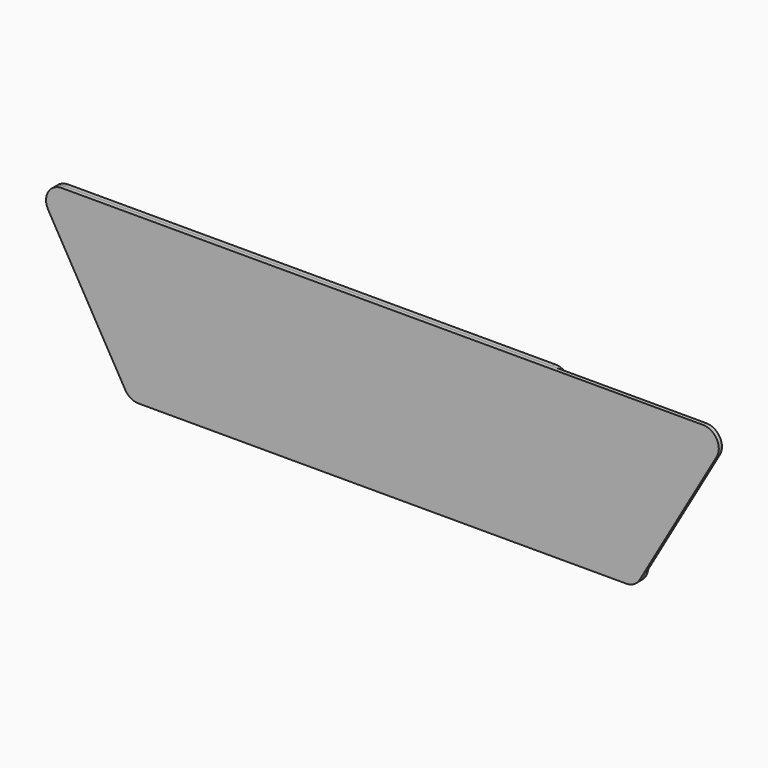
from build123d import *

# Parameters (mm, degrees)
F0_R     = 9.4
F1_DEPTH = 3
F3_DEPTH = 3


with BuildPart() as f1:
    # F0 (on Front) → F1 (new body)
    with BuildSketch(Plane.XZ):
        with BuildLine():
            Line((-10.392305, -6), (48.407695, -107.844587))
            ThreePointArc((48.407695, -107.844587), (52.8, -112.236892), (58.8, -113.844587))
            Line((58.8, -113.844587), (431.2, -113.844587))
            ThreePointArc((431.2, -113.844587), (441.592305, -107.844587), (441.592305, -95.844587))
            Line((441.592305, -95.844587), (382.792305, 6))
            ThreePointArc((382.792305, 6), (378.4, 10.392305), (372.4, 12))
            Line((372.4, 12), (0, 12))
            ThreePointArc((0, 12), (-10.392305, 6), (-10.392305, -6))
        make_face()
        with Locations((58.8, -101.844587)):
            Circle(F0_R, mode=Mode.SUBTRACT)
        with Locations((78.4, -101.844587)):
            Circle(F0_R, mode=Mode.SUBTRACT)
        with Locations((98, -101.844587)):
            Circle(F0_R, mode=Mode.SUBTRACT)
        with Locations((49, -84.87049)):
            Circle(F0_R, mode=Mode.SUBTRACT)
        with Locations((68.6, -84.87049)):
            Circle(F0_R, mode=Mode.SUBTRACT)
        with Locations((88.2, -84.87049)):
            Circle(F0_R, mode=Mode.SUBTRACT)
        with Locations((117.6, -101.844587)):
            Circle(F0_R, mode=Mode.SUBTRACT)
        with Locations((137.2, -101.844587)):
            Circle(F0_R, mode=Mode.SUBTRACT)
        with Locations((156.8, -101.844587)):
            Circle(F0_R, mode=Mode.SUBTRACT)
        with Locations((176.4, -101.844587)):
            Circle(F0_R, mode=Mode.SUBTRACT)
        with Locations((196, -101.844587)):
            Circle(F0_R, mode=Mode.SUBTRACT)
        with Locations((215.6, -101.844587)):
            Circle(F0_R, mode=Mode.SUBTRACT)
        with Locations((107.8, -84.87049)):
            Circle(F0_R, mode=Mode.SUBTRACT)
        with Locations((127.4, -84.87049)):
            Circle(F0_R, mode=Mode.SUBTRACT)
        with Locations((147, -84.87049)):
            Circle(F0_R, mode=Mode.SUBTRACT)
        with Locations((166.6, -84.87049)):
            Circle(F0_R, mode=Mode.SUBTRACT)
        with Locations((186.2, -84.87049)):
            Circle(F0_R, mode=Mode.SUBTRACT)
        with Locations((205.8, -84.87049)):
            Circle(F0_R, mode=Mode.SUBTRACT)
        with Locations((39.2, -67.896392)):
            Circle(F0_R, mode=Mode.SUBTRACT)
        with Locations((58.8, -67.896392)):
            Circle(F0_R, mode=Mode.SUBTRACT)
        with Locations((78.4, -67.896392)):
            Circle(F0_R, mode=Mode.SUBTRACT)
        with Locations((98, -67.896392)):
            Circle(F0_R, mode=Mode.SUBTRACT)
        with Locations((117.6, -67.896392)):
            Circle(F0_R, mode=Mode.SUBTRACT)
        with Locations((137.2, -67.896392)):
            Circle(F0_R, mode=Mode.SUBTRACT)
        with Locations((156.8, -67.896392)):
            Circle(F0_R, mode=Mode.SUBTRACT)
        with Locations((176.4, -67.896392)):
            Circle(F0_R, mode=Mode.SUBTRACT)
        with Locations((196, -67.896392)):
            Circle(F0_R, mode=Mode.SUBTRACT)
        with Locations((215.6, -67.896392)):
            Circle(F0_R, mode=Mode.SUBTRACT)
        with Locations((235.2, -101.844587)):
            Circle(F0_R, mode=Mode.SUBTRACT)
        with Locations((254.8, -101.844587)):
            Circle(F0_R, mode=Mode.SUBTRACT)
        with Locations((274.4, -101.844587)):
            Circle(F0_R, mode=Mode.SUBTRACT)
        with Locations((294, -101.844587)):
            Circle(F0_R, mode=Mode.SUBTRACT)
        with Locations((313.6, -101.844587)):
            Circle(F0_R, mode=Mode.SUBTRACT)
        with Locations((225.4, -84.87049)):
            Circle(F0_R, mode=Mode.SUBTRACT)
        with Locations((245, -84.87049)):
            Circle(F0_R, mode=Mode.SUBTRACT)
        with Locations((264.6, -84.87049)):
            Circle(F0_R, mode=Mode.SUBTRACT)
        with Locations((284.2, -84.87049)):
            Circle(F0_R, mode=Mode.SUBTRACT)
        with Locations((303.8, -84.87049)):
            Circle(F0_R, mode=Mode.SUBTRACT)
        with Locations((323.4, -84.87049)):
            Circle(F0_R, mode=Mode.SUBTRACT)
        with Locations((333.2, -101.844587)):
            Circle(F0_R, mode=Mode.SUBTRACT)
        with Locations((352.8, -101.844587)):
            Circle(F0_R, mode=Mode.SUBTRACT)
        with Locations((372.4, -101.844587)):
            Circle(F0_R, mode=Mode.SUBTRACT)
        with Locations((392, -101.844587)):
            Circle(F0_R, mode=Mode.SUBTRACT)
        with Locations((411.6, -101.844587)):
            Circle(F0_R, mode=Mode.SUBTRACT)
        with Locations((431.2, -101.844587)):
            Circle(F0_R, mode=Mode.SUBTRACT)
        with Locations((343, -84.87049)):
            Circle(F0_R, mode=Mode.SUBTRACT)
        with Locations((362.6, -84.87049)):
            Circle(F0_R, mode=Mode.SUBTRACT)
        with Locations((382.2, -84.87049)):
            Circle(F0_R, mode=Mode.SUBTRACT)
        with Locations((401.8, -84.87049)):
            Circle(F0_R, mode=Mode.SUBTRACT)
        with Locations((421.4, -84.87049)):
            Circle(F0_R, mode=Mode.SUBTRACT)
        with Locations((235.2, -67.896392)):
            Circle(F0_R, mode=Mode.SUBTRACT)
        with Locations((254.8, -67.896392)):
            Circle(F0_R, mode=Mode.SUBTRACT)
        with Locations((274.4, -67.896392)):
            Circle(F0_R, mode=Mode.SUBTRACT)
        with Locations((294, -67.896392)):
            Circle(F0_R, mode=Mode.SUBTRACT)
        with Locations((313.6, -67.896392)):
            Circle(F0_R, mode=Mode.SUBTRACT)
        with Locations((333.2, -67.896392)):
            Circle(F0_R, mode=Mode.SUBTRACT)
        with Locations((352.8, -67.896392)):
            Circle(F0_R, mode=Mode.SUBTRACT)
        with Locations((372.4, -67.896392)):
            Circle(F0_R, mode=Mode.SUBTRACT)
        with Locations((392, -67.896392)):
            Circle(F0_R, mode=Mode.SUBTRACT)
        with Locations((411.6, -67.896392)):
            Circle(F0_R, mode=Mode.SUBTRACT)
        with Locations((29.4, -50.922294)):
            Circle(F0_R, mode=Mode.SUBTRACT)
        with Locations((49, -50.922294)):
            Circle(F0_R, mode=Mode.SUBTRACT)
        with Locations((68.6, -50.922294)):
            Circle(F0_R, mode=Mode.SUBTRACT)
        with Locations((88.2, -50.922294)):
            Circle(F0_R, mode=Mode.SUBTRACT)
        with Locations((19.6, -33.948196)):
            Circle(F0_R, mode=Mode.SUBTRACT)
        with Locations((39.2, -33.948196)):
            Circle(F0_R, mode=Mode.SUBTRACT)
        with Locations((58.8, -33.948196)):
            Circle(F0_R, mode=Mode.SUBTRACT)
        with Locations((78.4, -33.948196)):
            Circle(F0_R, mode=Mode.SUBTRACT)
        with Locations((98, -33.948196)):
            Circle(F0_R, mode=Mode.SUBTRACT)
        with Locations((107.8, -50.922294)):
            Circle(F0_R, mode=Mode.SUBTRACT)
        with Locations((127.4, -50.922294)):
            Circle(F0_R, mode=Mode.SUBTRACT)
        with Locations((147, -50.922294)):
            Circle(F0_R, mode=Mode.SUBTRACT)
        with Locations((166.6, -50.922294)):
            Circle(F0_R, mode=Mode.SUBTRACT)
        with Locations((186.2, -50.922294)):
            Circle(F0_R, mode=Mode.SUBTRACT)
        with Locations((205.8, -50.922294)):
            Circle(F0_R, mode=Mode.SUBTRACT)
        with Locations((117.6, -33.948196)):
            Circle(F0_R, mode=Mode.SUBTRACT)
        with Locations((137.2, -33.948196)):
            Circle(F0_R, mode=Mode.SUBTRACT)
        with Locations((156.8, -33.948196)):
            Circle(F0_R, mode=Mode.SUBTRACT)
        with Locations((176.4, -33.948196)):
            Circle(F0_R, mode=Mode.SUBTRACT)
        with Locations((196, -33.948196)):
            Circle(F0_R, mode=Mode.SUBTRACT)
        with Locations((215.6, -33.948196)):
            Circle(F0_R, mode=Mode.SUBTRACT)
        with Locations((9.8, -16.974098)):
            Circle(F0_R, mode=Mode.SUBTRACT)
        with Locations((29.4, -16.974098)):
            Circle(F0_R, mode=Mode.SUBTRACT)
        with Locations((49, -16.974098)):
            Circle(F0_R, mode=Mode.SUBTRACT)
        with Locations((68.6, -16.974098)):
            Circle(F0_R, mode=Mode.SUBTRACT)
        with Locations((88.2, -16.974098)):
            Circle(F0_R, mode=Mode.SUBTRACT)
        Circle(F0_R, mode=Mode.SUBTRACT)
        with Locations((19.6, 0)):
            Circle(F0_R, mode=Mode.SUBTRACT)
        with Locations((39.2, 0)):
            Circle(F0_R, mode=Mode.SUBTRACT)
        with Locations((58.8, 0)):
            Circle(F0_R, mode=Mode.SUBTRACT)
        with Locations((78.4, 0)):
            Circle(F0_R, mode=Mode.SUBTRACT)
        with Locations((98, 0)):
            Circle(F0_R, mode=Mode.SUBTRACT)
        with Locations((107.8, -16.974098)):
            Circle(F0_R, mode=Mode.SUBTRACT)
        with Locations((127.4, -16.974098)):
            Circle(F0_R, mode=Mode.SUBTRACT)
        with Locations((147, -16.974098)):
            Circle(F0_R, mode=Mode.SUBTRACT)
        with Locations((166.6, -16.974098)):
            Circle(F0_R, mode=Mode.SUBTRACT)
        with Locations((186.2, -16.974098)):
            Circle(F0_R, mode=Mode.SUBTRACT)
        with Locations((205.8, -16.974098)):
            Circle(F0_R, mode=Mode.SUBTRACT)
        with Locations((117.6, 0)):
            Circle(F0_R, mode=Mode.SUBTRACT)
        with Locations((137.2, 0)):
            Circle(F0_R, mode=Mode.SUBTRACT)
        with Locations((156.8, 0)):
            Circle(F0_R, mode=Mode.SUBTRACT)
        with Locations((176.4, 0)):
            Circle(F0_R, mode=Mode.SUBTRACT)
        with Locations((196, 0)):
            Circle(F0_R, mode=Mode.SUBTRACT)
        with Locations((215.6, 0)):
            Circle(F0_R, mode=Mode.SUBTRACT)
        with Locations((225.4, -50.922294)):
            Circle(F0_R, mode=Mode.SUBTRACT)
        with Locations((245, -50.922294)):
            Circle(F0_R, mode=Mode.SUBTRACT)
        with Locations((264.6, -50.922294)):
            Circle(F0_R, mode=Mode.SUBTRACT)
        with Locations((284.2, -50.922294)):
            Circle(F0_R, mode=Mode.SUBTRACT)
        with Locations((303.8, -50.922294)):
            Circle(F0_R, mode=Mode.SUBTRACT)
        with Locations((323.4, -50.922294)):
            Circle(F0_R, mode=Mode.SUBTRACT)
        with Locations((235.2, -33.948196)):
            Circle(F0_R, mode=Mode.SUBTRACT)
        with Locations((254.8, -33.948196)):
            Circle(F0_R, mode=Mode.SUBTRACT)
        with Locations((274.4, -33.948196)):
            Circle(F0_R, mode=Mode.SUBTRACT)
        with Locations((294, -33.948196)):
            Circle(F0_R, mode=Mode.SUBTRACT)
        with Locations((313.6, -33.948196)):
            Circle(F0_R, mode=Mode.SUBTRACT)
        with Locations((343, -50.922294)):
            Circle(F0_R, mode=Mode.SUBTRACT)
        with Locations((362.6, -50.922294)):
            Circle(F0_R, mode=Mode.SUBTRACT)
        with Locations((382.2, -50.922294)):
            Circle(F0_R, mode=Mode.SUBTRACT)
        with Locations((401.8, -50.922294)):
            Circle(F0_R, mode=Mode.SUBTRACT)
        with Locations((333.2, -33.948196)):
            Circle(F0_R, mode=Mode.SUBTRACT)
        with Locations((352.8, -33.948196)):
            Circle(F0_R, mode=Mode.SUBTRACT)
        with Locations((372.4, -33.948196)):
            Circle(F0_R, mode=Mode.SUBTRACT)
        with Locations((392, -33.948196)):
            Circle(F0_R, mode=Mode.SUBTRACT)
        with Locations((225.4, -16.974098)):
            Circle(F0_R, mode=Mode.SUBTRACT)
        with Locations((245, -16.974098)):
            Circle(F0_R, mode=Mode.SUBTRACT)
        with Locations((264.6, -16.974098)):
            Circle(F0_R, mode=Mode.SUBTRACT)
        with Locations((284.2, -16.974098)):
            Circle(F0_R, mode=Mode.SUBTRACT)
        with Locations((303.8, -16.974098)):
            Circle(F0_R, mode=Mode.SUBTRACT)
        with Locations((323.4, -16.974098)):
            Circle(F0_R, mode=Mode.SUBTRACT)
        with Locations((235.2, 0)):
            Circle(F0_R, mode=Mode.SUBTRACT)
        with Locations((254.8, 0)):
            Circle(F0_R, mode=Mode.SUBTRACT)
        with Locations((274.4, 0)):
            Circle(F0_R, mode=Mode.SUBTRACT)
        with Locations((294, 0)):
            Circle(F0_R, mode=Mode.SUBTRACT)
        with Locations((313.6, 0)):
            Circle(F0_R, mode=Mode.SUBTRACT)
        with Locations((343, -16.974098)):
            Circle(F0_R, mode=Mode.SUBTRACT)
        with Locations((362.6, -16.974098)):
            Circle(F0_R, mode=Mode.SUBTRACT)
        with Locations((382.2, -16.974098)):
            Circle(F0_R, mode=Mode.SUBTRACT)
        with Locations((333.2, 0)):
            Circle(F0_R, mode=Mode.SUBTRACT)
        with Locations((352.8, 0)):
            Circle(F0_R, mode=Mode.SUBTRACT)
        with Locations((372.4, 0)):
            Circle(F0_R, mode=Mode.SUBTRACT)
    extrude(amount=F1_DEPTH)


with BuildPart() as f3:
    # F2 (on face) → F3 (new body)
    with BuildSketch(Plane.XZ.offset(3)):
        with BuildLine():
            Line((490, 12), (0, 12))
            ThreePointArc((0, 12), (-10.392305, 6), (-10.392305, -6))
            Line((-10.392305, -6), (48.407695, -107.844587))
            ThreePointArc((48.407695, -107.844587), (52.8, -112.236892), (58.8, -113.844587))
            Line((58.8, -113.844587), (431.2, -113.844587))
            ThreePointArc((431.2, -113.844587), (437.2, -112.236892), (441.592305, -107.844587))
            Line((441.592305, -107.844587), (500.392305, -6))
            ThreePointArc((500.392305, -6), (500.392305, 6), (490, 12))
        make_face()
    extrude(amount=F3_DEPTH)


solid = Compound([f1.part, f3.part])
